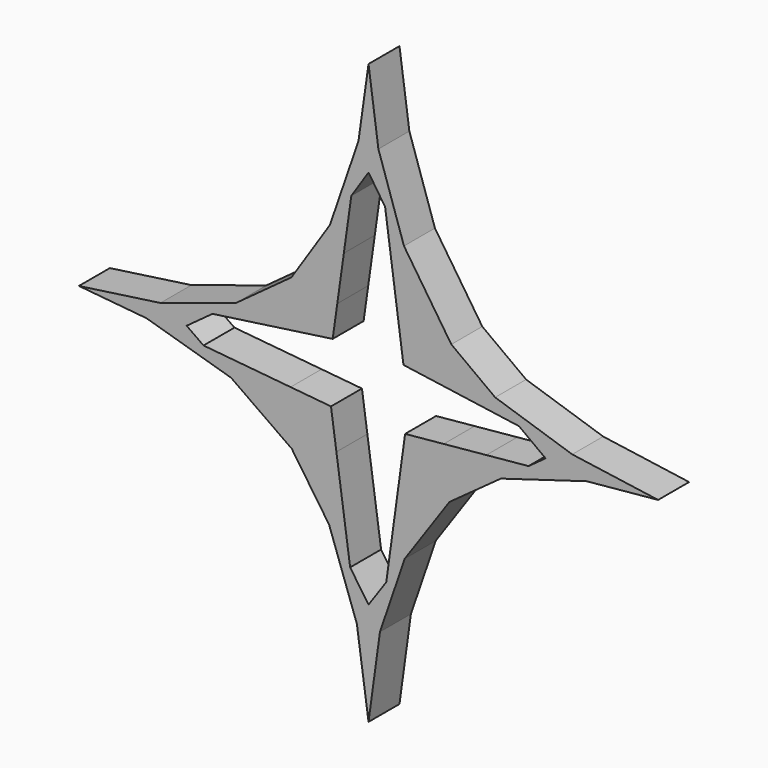
from build123d import *

# Parameters (mm, degrees)
F1_DEPTH = 25.4


with BuildPart() as f1:
    # F0 (on Front) → F1 (new body)
    with BuildSketch(Plane.XZ):
        Polygon((6.4789838679, 143.0610253916), (0, 190.1048020358), (-6.6051132214, 143.363907551), (0, 162.5912040472), align=None)
        Polygon((0, 162.5912040472), (-6.6051132214, 143.363907551), (-11.2874526005, 110.2294670761), (0, 127.4327933788), (10.8845930701, 111.0719821234), (6.4789838679, 143.0610253916), align=None)
        Polygon((-11.2874526005, 110.2294670761), (-6.6051132214, 143.363907551), (-25.3510719107, 88.7949556276), align=None)
        Polygon((23.2641081299, 92.464128984), (6.4789838679, 143.0610253916), (10.8845930701, 111.0719821234), align=None)
        Polygon((-16.1964657783, 75.4909759594), (-11.2874526005, 110.2294670761), (-25.3510719107, 88.7949556276), (-34.5284807194, 62.0797799271), align=None)
        Polygon((-34.5284807194, 62.0797799271), (-25.3510719107, 88.7949556276), (-50.5880084585, 50.3310727943), align=None)
        Polygon((23.2641081299, 92.464128984), (10.8845930701, 111.0719821234), (15.9783431129, 74.0863615106), (33.7067852385, 60.9858364417), align=None)
        Polygon((54.3591441951, 45.7246677317), (23.2641081299, 92.464128984), (33.7067852385, 60.9858364417), align=None)
        Polygon((-42.8858424978, 37.7517377794), (-34.5284807194, 62.0797799271), (-50.5880084585, 50.3310727943), (-63.1169358373, 31.2356016062), align=None)
        Polygon((-63.1169358373, 31.2356016062), (-50.5880084585, 50.3310727943), (-87.3659343428, 23.4253575589), align=None)
        Polygon((54.3591441951, 45.7246677317), (33.7067852385, 60.9858364417), (41.2983510128, 38.1019029624), (64.4518457344, 30.554161689), align=None)
        Polygon((83.1275046372, 24.4661372589), (54.3591441951, 45.7246677317), (64.4518457344, 30.554161689), align=None)
        Polygon((-72.7158875117, 16.6057374852), (-63.1169358373, 31.2356016062), (-87.3659343428, 23.4253575589), (-102.4342347336, 12.401804989), align=None)
        Polygon((-102.4342347336, 12.401804989), (-87.3659343428, 23.4253575589), (-136.5947303766, 7.5694898993), align=None)
        Polygon((83.1275046372, 24.4661372589), (64.4518457344, 30.554161689), (73.837026265, 16.4471421365), (98.7480565931, 12.92324866), align=None)
        Polygon((133.7063873813, 7.9780724792), (83.1275046372, 24.4661372589), (98.7480565931, 12.92324866), align=None)
        Polygon((-119.3864941597, 0), (-102.4342347336, 12.401804989), (-136.5947303766, 7.5694898993), (-160.0962430239, 0), (-145.7079445735, -4.2353132382), (-108.3147829025, -7.8024970817), align=None)
        Polygon((-160.0962430239, 0), (-136.5947303766, 7.5694898993), (-190.1048020358, 0), (-145.7079445735, -4.2353132382), align=None)
        Polygon((133.7063873813, 7.9780724792), (98.7480565931, 12.92324866), (116.2365972996, 0), (105.0231827748, -8.116504838), (143.1423881699, -4.4800588265), (158.1799685955, 0), align=None)
        Polygon((190.1048020358, 0), (133.7063873813, 7.9780724792), (158.1799685955, 0), (143.1423881699, -4.4800588265), align=None)
        Polygon((-64.3567517854, -28.1817016834), (-76.1863177081, -10.8674463087), (-108.3147829025, -7.8024970817), (-90.185094151, -20.5789180242), align=None)
        Polygon((-90.185094151, -20.5789180242), (-108.3147829025, -7.8024970817), (-145.7079445735, -4.2353132382), align=None)
        Polygon((105.0231827748, -8.116504838), (77.3257177694, -10.7587513145), (65.6897330033, -27.5550776524), (86.8962872603, -21.237132352), align=None)
        Polygon((143.1423881699, -4.4800588265), (105.0231827748, -8.116504838), (86.8962872603, -21.237132352), align=None)
        Polygon((-34.6929381596, -59.6855543086), (-43.7076647237, -34.2599292161), (-64.3567517854, -28.1817016834), (-50.3907510083, -48.6229338974), align=None)
        Polygon((-50.3907510083, -48.6229338974), (-64.3567517854, -28.1817016834), (-90.185094151, -20.5789180242), align=None)
        Polygon((65.6897330033, -27.5550776524), (42.0972347258, -34.58385337), (33.4121165087, -59.9500979433), (53.139639768, -45.6709024653), align=None)
        Polygon((86.8962872603, -21.237132352), (65.6897330033, -27.5550776524), (53.139639768, -45.6709024653), align=None)
        Polygon((-12.0666112155, -104.7157734591), (-16.6312789161, -72.4140332461), (-34.6929381596, -59.6855543086), (-25.9125275508, -84.4503019369), align=None)
        Polygon((-25.9125275508, -84.4503019369), (-34.6929381596, -59.6855543086), (-50.3907510083, -48.6229338974), align=None)
        Polygon((33.4121165087, -59.9500979433), (16.2104519289, -72.4010238832), (11.6420852362, -105.5718461452), (23.8011252741, -88.0204993073), align=None)
        Polygon((53.139639768, -45.6709024653), (33.4121165087, -59.9500979433), (23.8011252741, -88.0204993073), align=None)
        Polygon((-7.6525536308, -135.9517255008), (-12.0666112155, -104.7157734591), (-25.9125275508, -84.4503019369), align=None)
        Polygon((0, -122.3769783974), (-12.0666112155, -104.7157734591), (-7.6525536308, -135.9517255008), (0, -157.5354039669), (7.5039086249, -135.6190665407), (11.6420852362, -105.5718461452), align=None)
        Polygon((23.8011252741, -88.0204993073), (11.6420852362, -105.5718461452), (7.5039086249, -135.6190665407), align=None)
        Polygon((0, -157.5354039669), (-7.6525536308, -135.9517255008), (0, -190.1048020358), (7.5039086249, -135.6190665407), align=None)
        Polygon((-23.5345997346, 23.5628812437), (-20.5111412815, 44.9582983698), (-42.8858424978, 37.7517377794), (-48.9974841566, 19.9609229495), align=None)
        Polygon((-48.9974841566, 19.9609229495), (-42.8858424978, 37.7517377794), (-63.1169358373, 31.2356016062), (-72.7158875117, 16.6057374852), align=None)
        Polygon((-20.5111412815, 44.9582983698), (-16.1964657783, 75.4909759594), (-34.5284807194, 62.0797799271), (-42.8858424978, 37.7517377794), align=None)
        Polygon((-43.7076647237, -34.2599292161), (-51.1548930664, -13.2553613598), (-76.1863177081, -10.8674463087), (-64.3567517854, -28.1817016834), align=None)
        Polygon((-21.0818016053, -40.9200369363), (-24.6336619422, -15.7853990178), (-51.1548930664, -13.2553613598), (-43.7076647237, -34.2599292161), align=None)
        Polygon((-16.6312789161, -72.4140332461), (-21.0818016053, -40.9200369363), (-43.7076647237, -34.2599292161), (-34.6929381596, -59.6855543086), align=None)
        Polygon((42.0972347258, -34.58385337), (20.5339658906, -41.0080725688), (16.2104519289, -72.4010238832), (33.4121165087, -59.9500979433), align=None)
        Polygon((49.3406122431, -13.4284377447), (23.9993605016, -15.8459092755), (20.5339658906, -41.0080725688), (42.0972347258, -34.58385337), align=None)
        Polygon((33.7067852385, 60.9858364417), (15.9783431129, 74.0863615106), (19.9769714734, 45.0523982672), (41.2983510128, 38.1019029624), align=None)
        Polygon((41.2983510128, 38.1019029624), (19.9769714734, 45.0523982672), (22.9246777033, 23.6491603032), (47.2337087064, 20.2104251467), align=None)
        Polygon((64.4518457344, 30.554161689), (41.2983510128, 38.1019029624), (47.2337087064, 20.2104251467), (73.837026265, 16.4471421365), align=None)
        Polygon((77.3257177694, -10.7587513145), (49.3406122431, -13.4284377447), (42.0972347258, -34.58385337), (65.6897330033, -27.5550776524), align=None)
    extrude(amount=F1_DEPTH)


solid = f1.part
